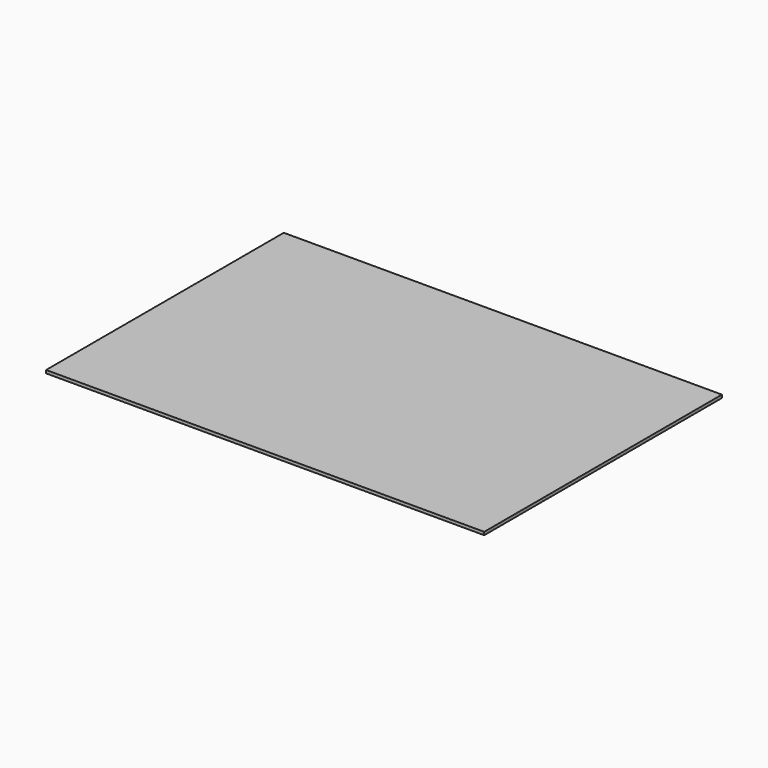
from build123d import *

# Parameters (mm, degrees)
SKETCH_W  = 435
SKETCH_H  = 295
PAD_DEPTH = 3


with BuildPart() as part:
    # Sketch → Pad (new body)
    with BuildSketch(Plane.XY):
        Rectangle(SKETCH_W, SKETCH_H)
    extrude(amount=PAD_DEPTH)


solid = part.part
